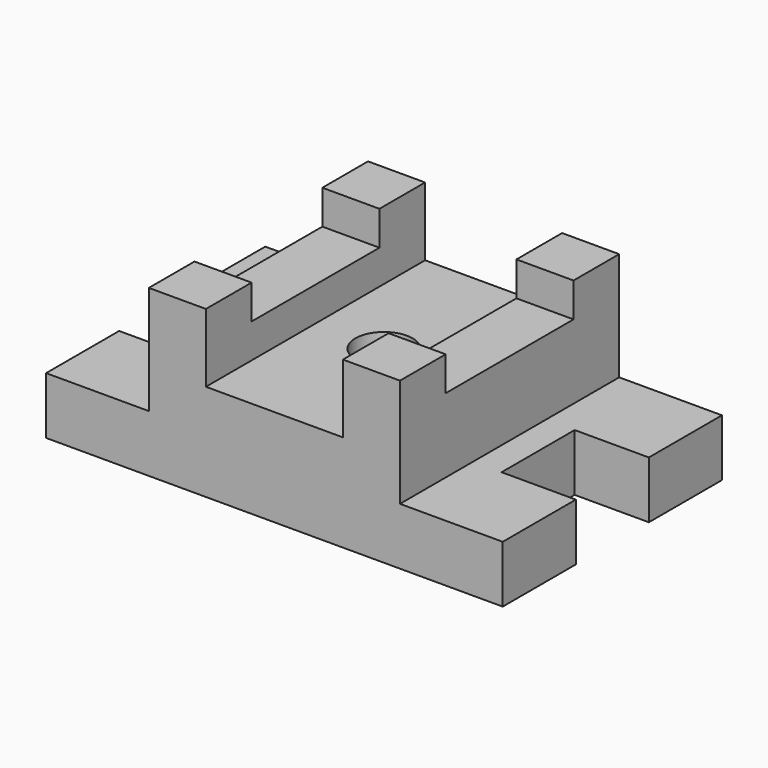
from build123d import *

# Parameters (mm, degrees)
F0_W     = 171.45
F0_H     = 50.8
F1_DEPTH = 31.75
F2_W     = 76.2
F2_H     = 152.4
F3_DEPTH = 22.225
F4_R     = 15.875
F5_DEPTH = 53.976
F6_W     = 31.75
F6_H     = 152.4
F7_DEPTH = 60.325
F8_W     = 31.75
F8_H     = 88.9
F9_DEPTH = 19.05


with BuildPart() as f1:
    # F0 (on Top) → F1 (new body)
    with BuildSketch(Plane.XY):
        Polygon((-93.617896, 5.05601), (-134.892896, 5.05601), (-134.892896, -45.74399), (119.107104, -45.74399), (119.107104, 5.05601), (77.832104, 5.05601), align=None)
        with Locations((-7.892896, 30.45601)):
            Rectangle(F0_W, F0_H)
        Polygon((-134.892896, 55.85601), (-93.617896, 55.85601), (77.832104, 55.85601), (119.107104, 55.85601), (119.107104, 106.65601), (-134.892896, 106.65601), align=None)
    extrude(amount=F1_DEPTH)

    # F2 (on face) → F3 (join)
    with BuildSketch(Plane.XY.offset(31.75)):
        with Locations((-7.892896, 30.45601)):
            Rectangle(F2_W, F2_H)
    extrude(amount=F3_DEPTH)

    # F4 (on face) → F5 (cut, through all)
    with BuildSketch(Plane.XY.offset(53.975)):
        with Locations((-7.892896, 30.45601)):
            Circle(F4_R)
    extrude(amount=-F5_DEPTH, mode=Mode.SUBTRACT)

    # F6 (on face) → F7 (join)
    with BuildSketch(Plane.XY.offset(31.75)):
        with Locations((-61.867896, 30.45601)):
            Rectangle(F6_W, F6_H)
        with Locations((46.082104, 30.45601)):
            Rectangle(F6_W, F6_H)
    extrude(amount=F7_DEPTH)

    # F8 (on face) → F9 (cut)
    with BuildSketch(Plane.XY.offset(92.075)):
        with Locations((-61.867896, 30.45601)):
            Rectangle(F8_W, F8_H)
        with Locations((46.082104, 30.45601)):
            Rectangle(F8_W, F8_H)
    extrude(amount=-F9_DEPTH, mode=Mode.SUBTRACT)


solid = f1.part
